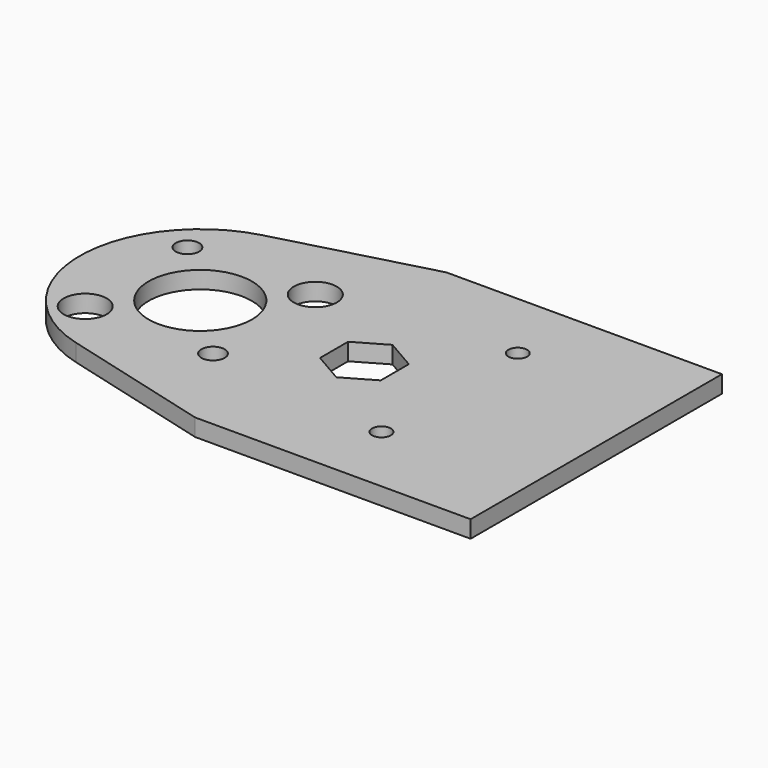
from build123d import *

# Parameters (mm, degrees)
F0_R     = 3.96875
F0_R_2   = 9.525
F0_R_3   = 2.15265
F0_R_4   = 1.7272
F1_DEPTH = 3.175


with BuildPart() as f1:
    # F0 (on Top) → F1 (new body)
    with BuildSketch(Plane.XY):
        with BuildLine():
            Line((73.025, 28.964184), (22.225, 28.964184))
            Line((22.225, 28.964184), (-5.752253, 21.467701))
            ThreePointArc((-5.752253, 21.467701), (-22.225, 0), (-5.752253, -21.467701))
            Line((-5.752253, -21.467701), (22.225, -28.964184))
            Line((22.225, -28.964184), (73.025, -28.964184))
            Line((73.025, -28.964184), (73.025, 28.964184))
        make_face()
        with Locations((-11.786586, -11.786586)):
            Circle(F0_R, mode=Mode.SUBTRACT)
        Circle(F0_R_2, mode=Mode.SUBTRACT)
        with Locations((11.786586, -11.786586)):
            Circle(F0_R_3, mode=Mode.SUBTRACT)
        with Locations((45.983293, -15.711065)):
            Circle(F0_R_4, mode=Mode.SUBTRACT)
        Polygon((30.272228, 6.467131), (35.872928, 3.233566), (35.872928, -3.233566), (30.272228, -6.467131), (24.671528, -3.233566), (24.671528, 3.233566), align=None, mode=Mode.SUBTRACT)
        with Locations((-11.786586, 11.786586)):
            Circle(F0_R_3, mode=Mode.SUBTRACT)
        with Locations((11.786586, 11.786586)):
            Circle(F0_R, mode=Mode.SUBTRACT)
        with Locations((45.983293, 15.711065)):
            Circle(F0_R_4, mode=Mode.SUBTRACT)
    extrude(amount=F1_DEPTH)


solid = f1.part
